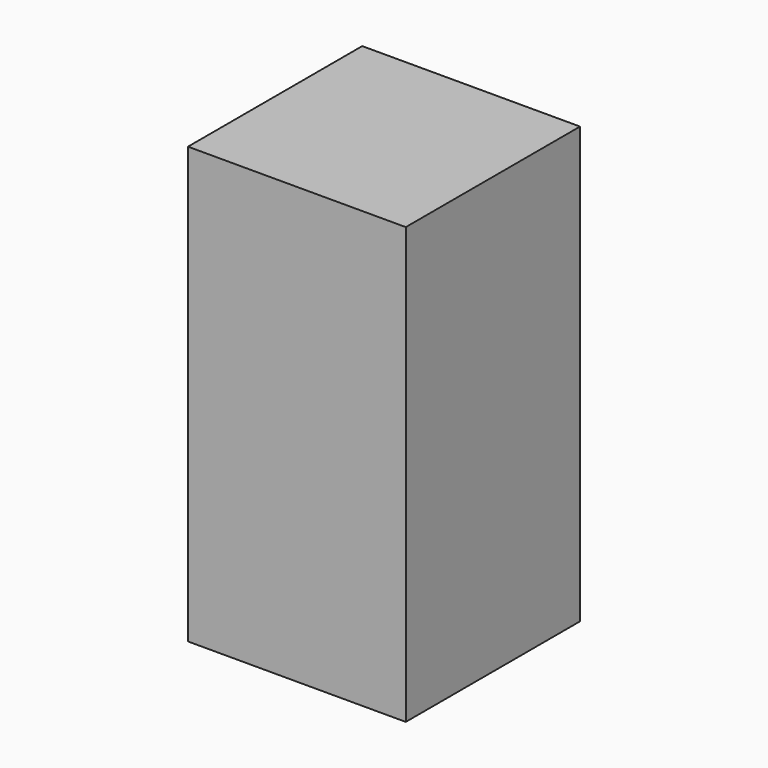
from build123d import *

# Parameters (mm, degrees)
BOX013_W     = 3600
BOX013_H     = 3600
BOX013_DEPTH = 7600
BOX012_W     = 4000
BOX012_H     = 4000
BOX012_DEPTH = 8000


with BuildPart() as cube012:
    # Box013 → Box013 (new body)
    with BuildSketch(Plane(origin=(-1800, -1800, -3800), x_dir=(1, 0, 0), z_dir=(0, 0, 1))):
        with Locations((1800, 1800)):
            Rectangle(BOX013_W, BOX013_H)
    extrude(amount=BOX013_DEPTH)


with BuildPart() as phantom:
    # Box012 → Box012 (new body)
    with BuildSketch(Plane(origin=(-2000, -2000, -4000), x_dir=(1, 0, 0), z_dir=(0, 0, 1))):
        with Locations((2000, 2000)):
            Rectangle(BOX012_W, BOX012_H)
    extrude(amount=BOX012_DEPTH)

    # Cut006: cut Cube012
    add(cube012.part, mode=Mode.SUBTRACT)


solid = phantom.part
